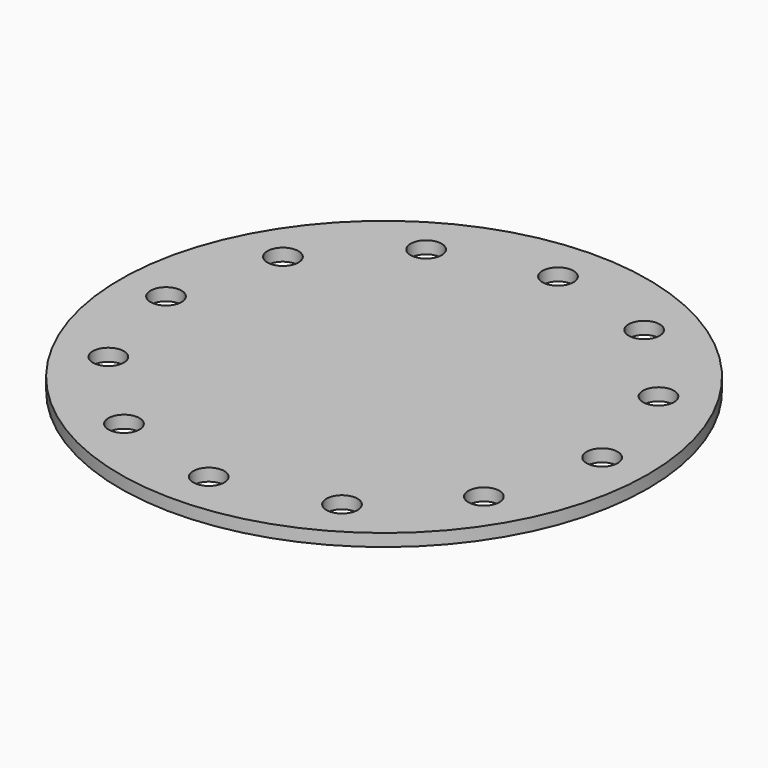
from build123d import *

# Parameters (mm, degrees)
F0_R     = 42.5
F0_R_2   = 2.5
F1_DEPTH = 2


with BuildPart() as f1:
    # F0 (on Top) → F1 (new body)
    with BuildSketch(Plane.XY):
        Circle(F0_R)
        with Locations((-0.220217, -35)):
            Circle(F0_R_2, mode=Mode.SUBTRACT)
        with Locations((-17.555054, -30.406246)):
            Circle(F0_R_2, mode=Mode.SUBTRACT)
        with Locations((-30.476052, -17.404643)):
            Circle(F0_R_2, mode=Mode.SUBTRACT)
        with Locations((17.555054, -30.406246)):
            Circle(F0_R_2, mode=Mode.SUBTRACT)
        with Locations((30.145726, -17.595357)):
            Circle(F0_R_2, mode=Mode.SUBTRACT)
        with Locations((-35.110109, 0)):
            Circle(F0_R_2, mode=Mode.SUBTRACT)
        with Locations((-30.365943, 17.595357)):
            Circle(F0_R_2, mode=Mode.SUBTRACT)
        with Locations((-17.555054, 30.406246)):
            Circle(F0_R_2, mode=Mode.SUBTRACT)
        with Locations((35.110109, 0)):
            Circle(F0_R_2, mode=Mode.SUBTRACT)
        with Locations((30.255835, 17.404643)):
            Circle(F0_R_2, mode=Mode.SUBTRACT)
        with Locations((17.555054, 30.406246)):
            Circle(F0_R_2, mode=Mode.SUBTRACT)
        with Locations((0, 35)):
            Circle(F0_R_2, mode=Mode.SUBTRACT)
    extrude(amount=F1_DEPTH)


solid = f1.part
